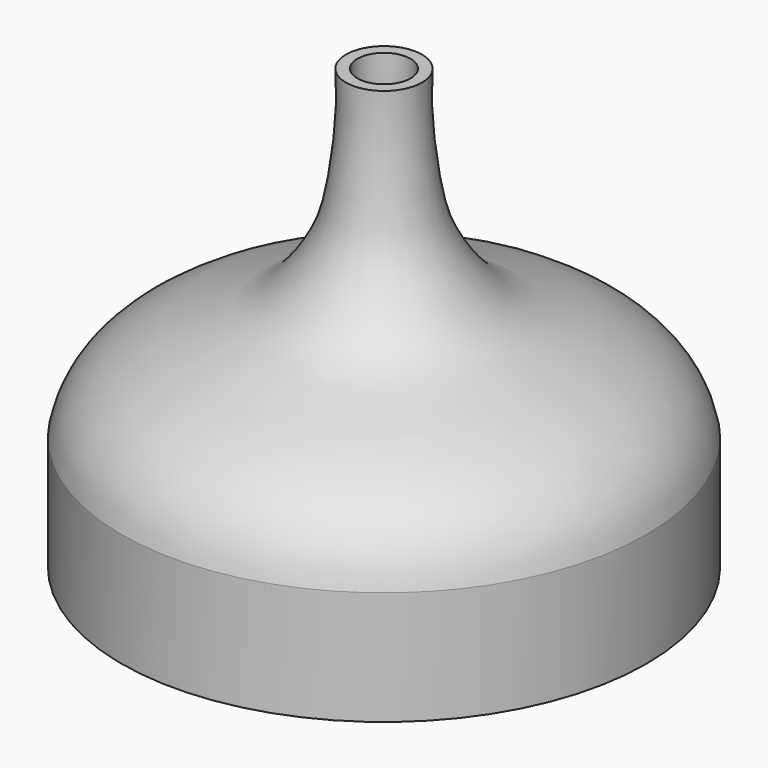
from build123d import *

# Parameters (mm, degrees)
F2_T     = -2.54
F3_DEPTH = 25.4


with BuildPart() as f1:
    # F0 (on Front) → F1 (revolve)
    with BuildSketch(Plane.XZ):
        with BuildLine():
            Line((0, 72.5407153368), (0, 0))
            Line((0, 0), (58.6149245501, 0))
            add(Edge.make_bspline(
                [(58.6149245501, 0), (55.9713644566, 14.2458403306), (32.2096622383, 22.1901931416), (21.0294584005, 27.104555627), (12.4597813272, 39.3262840781), (9.5957945579, 49.4887854359), (7.9367168826, 65.4511018078), (8.4820725024, 72.5407153368)],
                knots=[0, 0, 0, 0, 0.2764857715, 0.4459235627, 0.6173456673, 0.7746653717, 1, 1, 1, 1], degree=3))
            Line((8.4820725024, 72.5407153368), (0, 72.5407153368))
        make_face()
    revolve(axis=Axis((0, 0, 36.2703576684), (0, 0, 1)))

    # F2
    f2_openings = [f1.faces().sort_by_distance(p)[0] for p in [
        (0, 0, 0),
        (0, 0, 72.540715),
    ]]
    offset(amount=F2_T, openings=f2_openings)

    # F3 (add): a face of the model
    f3_faces = [f1.faces().sort_by_distance(p)[0] for p in [
        (-56.9570441221, 0, 0),
    ]]
    extrude(f3_faces, amount=F3_DEPTH)


solid = f1.part
